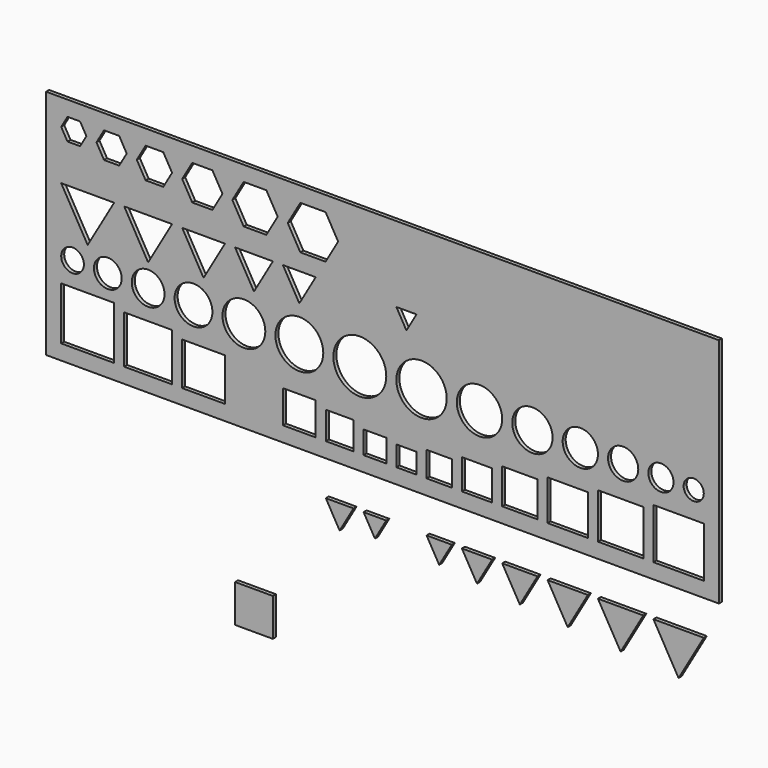
from build123d import *

# Parameters (mm, degrees)
F0_W     = 15
F0_H     = 15
F0_W_2   = 9
F0_H_2   = 9
F0_W_3   = 8
F0_H_3   = 8
F0_W_4   = 10
F0_H_4   = 10
F0_W_5   = 21
F0_H_5   = 21
F0_W_6   = 19
F0_H_6   = 19
F0_W_7   = 17
F0_H_7   = 17
F0_R     = 4.5
F0_R_2   = 5.5
F0_R_3   = 6.5
F0_R_4   = 7.5
F0_W_8   = 13
F0_H_8   = 13
F0_W_9   = 11
F0_H_9   = 11
F0_R_5   = 8.5
F0_R_6   = 9.5
F0_R_7   = 10.5
F0_W_10  = 12
F0_H_10  = 12
F0_W_11  = 14
F0_H_11  = 14
F0_R_8   = 10
F0_R_9   = 9
F0_R_10  = 8
F0_W_12  = 16
F0_H_12  = 16
F0_W_13  = 18
F0_H_13  = 18
F0_W_14  = 20
F0_H_14  = 20
F0_R_11  = 7
F0_R_12  = 6
F0_R_13  = 5
F0_R_14  = 4
F1_DEPTH = 1.5


with BuildPart() as f1:
    # F0 (on Front) → F1 (new body)
    with BuildSketch(Plane.XZ):
        with Locations((-56.5, -68.404836)):
            Rectangle(F0_W, F0_H)
        Polygon((22, -19.906721), (12, -19.906721), (17, -28.566975), align=None)
        Polygon((38, -19.906721), (26, -19.906721), (32, -30.299026), align=None)
        Polygon((56, -19.906721), (42, -19.906721), (49, -32.031077), align=None)
        Polygon((76, -19.906721), (60, -19.906721), (68, -33.763127), align=None)
        Polygon((98, -19.906721), (80, -19.906721), (89, -35.495178), align=None)
        Polygon((122, -19.906721), (102, -19.906721), (112, -37.227229), align=None)
        Polygon((-4, -19.906721), (-13, -19.906721), (-8.5, -27.70095), align=None)
        Polygon((-17, -19.906721), (-28, -19.906721), (-22.5, -29.433), align=None)
        Polygon((128, 85.998115), (-139, 85.998115), (-139, 79.998115), (-139, -6), (128, -6), align=None)
        with Locations((-8.5, 4.5)):
            Rectangle(F0_W_2, F0_H_2, mode=Mode.SUBTRACT)
        with Locations((4, 4)):
            Rectangle(F0_W_3, F0_H_3, mode=Mode.SUBTRACT)
        with Locations((17, 5)):
            Rectangle(F0_W_4, F0_H_4, mode=Mode.SUBTRACT)
        with Locations((-122.5, 10.5)):
            Rectangle(F0_W_5, F0_H_5, mode=Mode.SUBTRACT)
        with Locations((-98.5, 9.5)):
            Rectangle(F0_W_6, F0_H_6, mode=Mode.SUBTRACT)
        with Locations((-76.5, 8.5)):
            Rectangle(F0_W_7, F0_H_7, mode=Mode.SUBTRACT)
        with Locations((-128.5, 30.5)):
            Circle(F0_R, mode=Mode.SUBTRACT)
        with Locations((-114.5, 30.5)):
            Circle(F0_R_2, mode=Mode.SUBTRACT)
        with Locations((-98.5, 30.5)):
            Circle(F0_R_3, mode=Mode.SUBTRACT)
        with Locations((-80.5, 30.5)):
            Circle(F0_R_4, mode=Mode.SUBTRACT)
        with Locations((-38.5, 6.5)):
            Rectangle(F0_W_8, F0_H_8, mode=Mode.SUBTRACT)
        with Locations((-22.5, 5.5)):
            Rectangle(F0_W_9, F0_H_9, mode=Mode.SUBTRACT)
        with Locations((-60.5, 30.5)):
            Circle(F0_R_5, mode=Mode.SUBTRACT)
        with Locations((-38.5, 30.5)):
            Circle(F0_R_6, mode=Mode.SUBTRACT)
        with Locations((-14.5, 30.5)):
            Circle(F0_R_7, mode=Mode.SUBTRACT)
        Polygon((-122.5, 37.811581), (-133, 55.998115), (-112, 55.998115), align=None, mode=Mode.SUBTRACT)
        Polygon((-98.5, 39.543632), (-108, 55.998115), (-89, 55.998115), align=None, mode=Mode.SUBTRACT)
        Polygon((-76.5, 41.275683), (-85, 55.998115), (-68, 55.998115), align=None, mode=Mode.SUBTRACT)
        Polygon((-133, 75.667987), (-130.5, 79.998115), (-125.5, 79.998115), (-123, 75.667987), (-125.5, 71.33786), (-130.5, 71.33786), align=None, mode=Mode.SUBTRACT)
        Polygon((-119, 74.801962), (-116, 79.998115), (-110, 79.998115), (-107, 74.801962), (-110, 69.60581), (-116, 69.60581), align=None, mode=Mode.SUBTRACT)
        Polygon((-103, 73.935937), (-99.5, 79.998115), (-92.5, 79.998115), (-89, 73.935937), (-92.5, 67.873759), (-99.5, 67.873759), align=None, mode=Mode.SUBTRACT)
        Polygon((-85, 73.069911), (-81, 79.998115), (-73, 79.998115), (-69, 73.069911), (-73, 66.141708), (-81, 66.141708), align=None, mode=Mode.SUBTRACT)
        Polygon((-56.5, 43.007733), (-64, 55.998115), (-49, 55.998115), align=None, mode=Mode.SUBTRACT)
        Polygon((-38.5, 44.739784), (-45, 55.998115), (-32, 55.998115), align=None, mode=Mode.SUBTRACT)
        Polygon((-65.094875, 72.203886), (-60.594875, 79.998115), (-51.594875, 79.998115), (-47.094875, 72.203886), (-51.594875, 64.409657), (-60.594875, 64.409657), align=None, mode=Mode.SUBTRACT)
        Polygon((-43.094875, 71.33786), (-38.094875, 79.998115), (-28.094875, 79.998115), (-23.094875, 71.33786), (-28.094875, 62.677606), (-38.094875, 62.677606), align=None, mode=Mode.SUBTRACT)
        with Locations((32, 6)):
            Rectangle(F0_W_10, F0_H_10, mode=Mode.SUBTRACT)
        with Locations((49, 7)):
            Rectangle(F0_W_11, F0_H_11, mode=Mode.SUBTRACT)
        with Locations((10, 30.5)):
            Circle(F0_R_8, mode=Mode.SUBTRACT)
        with Locations((33, 30.5)):
            Circle(F0_R_9, mode=Mode.SUBTRACT)
        with Locations((54, 30.5)):
            Circle(F0_R_10, mode=Mode.SUBTRACT)
        with Locations((68, 8)):
            Rectangle(F0_W_12, F0_H_12, mode=Mode.SUBTRACT)
        with Locations((89, 9)):
            Rectangle(F0_W_13, F0_H_13, mode=Mode.SUBTRACT)
        with Locations((112, 10)):
            Rectangle(F0_W_14, F0_H_14, mode=Mode.SUBTRACT)
        with Locations((73, 30.5)):
            Circle(F0_R_11, mode=Mode.SUBTRACT)
        with Locations((90, 30.5)):
            Circle(F0_R_12, mode=Mode.SUBTRACT)
        with Locations((105, 30.5)):
            Circle(F0_R_13, mode=Mode.SUBTRACT)
        with Locations((118, 30.5)):
            Circle(F0_R_14, mode=Mode.SUBTRACT)
        Polygon((4, 49.069911), (0, 55.998115), (8, 55.998115), align=None, mode=Mode.SUBTRACT)
    extrude(amount=F1_DEPTH)


solid = f1.part
